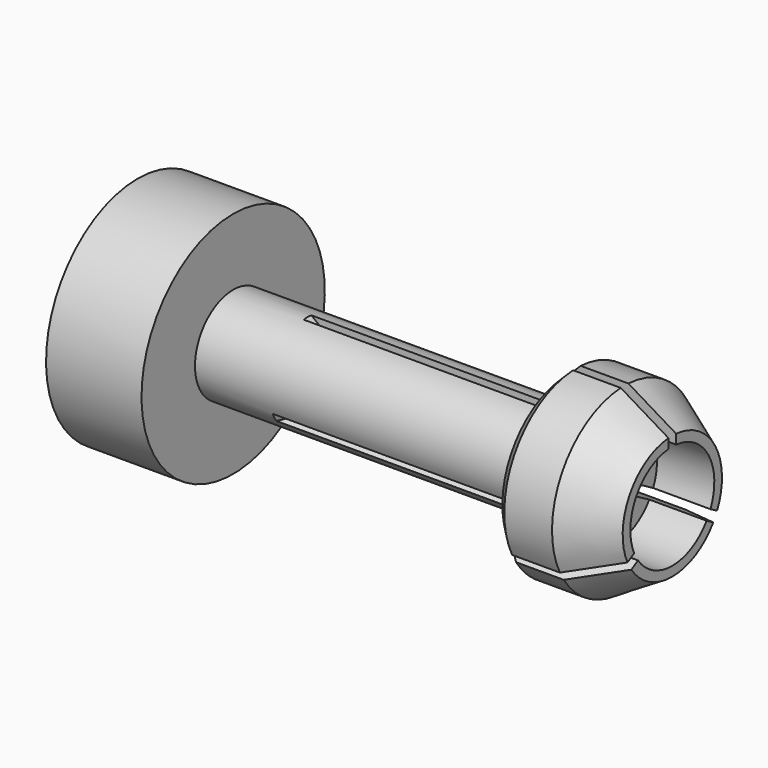
from build123d import *

# Parameters (mm, degrees)
F2_SIZE  = 1
F4_DEPTH = 0.5
F5_COUNT = 3


with BuildPart() as f1:
    # F0 (on Front) → F1 (revolve)
    with BuildSketch(Plane.XZ):
        Polygon((35, 5), (0, 5), (0, 12), (-10, 12), (-10, 0), (0, 0), (40, 0), (40, 5.5), (46, 5.5), (46, 6.5), (41, 9.5), (35, 9.5), align=None)
    revolve(axis=Axis((23.443235, 0, 0), (1, 0, 0)))

    # F2
    f2_edges = [f1.edges().sort_by_distance(p)[0] for p in [
        (35, 0, -9.5),
    ]]
    chamfer(f2_edges, length=F2_SIZE)


with BuildPart() as f4:
    # F3 (on Front) → F4 (new body, symmetric)
    with BuildSketch(Plane.XZ):
        with BuildLine():
            Line((55.388199, 40), (21, 40))
            ThreePointArc((21, 40), (1, 20), (21, 0))
            Line((21, 0), (55.388199, 0))
            Line((55.388199, 0), (55.388199, 40))
        make_face()
    extrude(amount=F4_DEPTH, both=True)


with BuildPart() as f5_1:
    # F5: instance of F4
    add(f4.part.rotate(Axis((62.455053, 0, 0), (1, 0, 0)), 1 * 360 / F5_COUNT))


with BuildPart() as f5_2:
    # F5: instance of F4
    add(f4.part.rotate(Axis((62.455053, 0, 0), (1, 0, 0)), 2 * 360 / F5_COUNT))


with BuildPart() as f1_1:
    add(f1.part)

    # F6: cut F4, F5_1, F5_2
    add(f4.part, mode=Mode.SUBTRACT)
    add(f5_1.part, mode=Mode.SUBTRACT)
    add(f5_2.part, mode=Mode.SUBTRACT)


solid = f1_1.part
